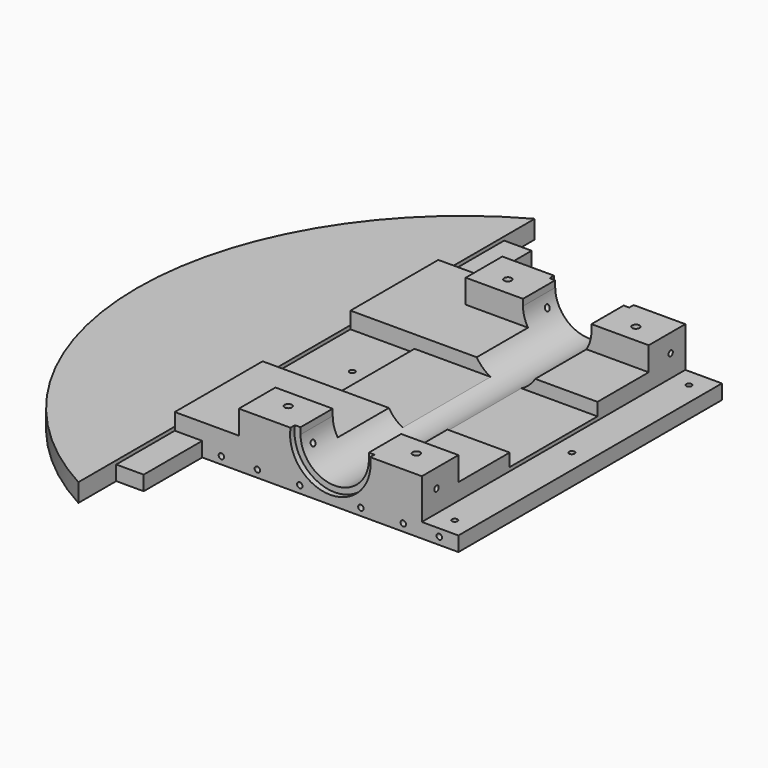
from build123d import *

# Parameters (mm, degrees)
SKETCH_W        = 100
SKETCH_H        = 180
PAD_DEPTH       = 30
SKETCH001_R     = 18.7
POCKET_DEPTH    = 180.0010000003
SKETCH002_W     = 37.4
SKETCH002_H     = 3.534863
POCKET001_DEPTH = 180.0010000003
SKETCH003_W     = 180
SKETCH003_H     = 8
PAD001_DEPTH    = 20
SKETCH004_W     = 180
SKETCH004_H     = 8
PAD002_DEPTH    = 20
SKETCH005_R     = 1.5
POCKET002_DEPTH = 8.001
SKETCH006_R     = 1.5
POCKET003_DEPTH = 120.001
SKETCH007_R     = 1.5
POCKET004_DEPTH = 180.0010001003
SKETCH008_W     = 130
SKETCH008_H     = 13
POCKET005_DEPTH = 400
SKETCH009_R     = 22
POCKET006_DEPTH = 3
SKETCH010_R     = 22
POCKET007_DEPTH = 3
SKETCH011_W     = 60
SKETCH011_H     = 7
POCKET008_DEPTH = 120
SKETCH012_R     = 2
POCKET009_DEPTH = 30.0010001
SKETCH013_W     = 60
SKETCH013_H     = 9
PAD003_DEPTH    = 35
SKETCH014_W     = 60
SKETCH014_H     = 9
PAD004_DEPTH    = 35
SKETCH015_W     = 180
SKETCH015_H     = 17
PAD005_DEPTH    = 15
SKETCH016_W     = 60
SKETCH016_H     = 9
POCKET010_DEPTH = 27
SKETCH017_W     = 15
SKETCH017_H     = 8
PAD006_DEPTH    = 40
SKETCH018_W     = 15
SKETCH018_H     = 8
PAD007_DEPTH    = 45
SKETCH019_W     = 265
SKETCH019_H     = 8
PAD008_DEPTH    = 15
PAD009_DEPTH    = 10


with BuildPart() as part:
    # Sketch → Pad (new body)
    with BuildSketch(Plane.XY):
        Rectangle(SKETCH_W, SKETCH_H)
    extrude(amount=PAD_DEPTH)

    # Sketch001 → Pocket (cut, through all)
    with BuildSketch(Plane.XZ.offset(90)):
        with Locations((0, 26.7)):
            Circle(SKETCH001_R)
    extrude(amount=-POCKET_DEPTH, mode=Mode.SUBTRACT)

    # Sketch002 → Pocket001 (cut, through all)
    with BuildSketch(Plane.XZ.offset(90)):
        with Locations((0, 28.2325685)):
            Rectangle(SKETCH002_W, SKETCH002_H)
    extrude(amount=-POCKET001_DEPTH, mode=Mode.SUBTRACT)

    # Sketch003 → Pad001 (new body)
    with BuildSketch(Plane(origin=(-50, 0, 0), x_dir=(0, -1, 0), z_dir=(-1, 0, 0))):
        with Locations((0, 4)):
            Rectangle(SKETCH003_W, SKETCH003_H)
    extrude(amount=PAD001_DEPTH)

    # Sketch004 → Pad002 (new body)
    with BuildSketch(Plane.YZ.offset(50)):
        with Locations((0, 4)):
            Rectangle(SKETCH004_W, SKETCH004_H)
    extrude(amount=PAD002_DEPTH)

    # Sketch005 → Pocket002 (cut, through all)
    with BuildSketch(Plane.XY.offset(8)):
        with Locations((-60, 80)):
            Circle(SKETCH005_R)
        with Locations((60, 80)):
            Circle(SKETCH005_R)
        with Locations((-60, -80)):
            Circle(SKETCH005_R)
        with Locations((60, -80)):
            Circle(SKETCH005_R)
        with Locations((60, 0)):
            Circle(SKETCH005_R)
        with Locations((-60, 0)):
            Circle(SKETCH005_R)
    extrude(amount=-POCKET002_DEPTH, mode=Mode.SUBTRACT)

    # Sketch006 → Pocket003 (cut, through all)
    with BuildSketch(Plane.YZ.offset(50)):
        with Locations((-80, 20)):
            Circle(SKETCH006_R)
        with Locations((0, 20)):
            Circle(SKETCH006_R)
        with Locations((80, 20)):
            Circle(SKETCH006_R)
    extrude(amount=-POCKET003_DEPTH, mode=Mode.SUBTRACT)

    # Sketch007 → Pocket004 (cut, through all)
    with BuildSketch(Plane(origin=(0, 90, 0), x_dir=(-1, 0, 0), z_dir=(0, 1, 0))):
        with Locations((-39.8613268753, 4)):
            Circle(SKETCH007_R)
        with Locations((-16.6962588038, 4)):
            Circle(SKETCH007_R)
        with Locations((16.6962588038, 4)):
            Circle(SKETCH007_R)
        with Locations((39.8613268753, 4)):
            Circle(SKETCH007_R)
        with Locations((59.5531621299, 4)):
            Circle(SKETCH007_R)
        with Locations((-59.5531621299, 4)):
            Circle(SKETCH007_R)
    extrude(amount=-POCKET004_DEPTH, mode=Mode.SUBTRACT)

    # Sketch008 → Pocket005 (cut)
    with BuildSketch(Plane(origin=(-50, 0, 0), x_dir=(0, -1, 0), z_dir=(-1, 0, 0))):
        with Locations((0, 23.5)):
            Rectangle(SKETCH008_W, SKETCH008_H)
    extrude(amount=-POCKET005_DEPTH, mode=Mode.SUBTRACT)

    # Sketch009 → Pocket006 (cut)
    with BuildSketch(Plane.XZ.offset(90)):
        with Locations((0, 26.782612)):
            Circle(SKETCH009_R)
    extrude(amount=-POCKET006_DEPTH, mode=Mode.SUBTRACT)

    # Sketch010 → Pocket007 (cut)
    with BuildSketch(Plane(origin=(0, 90, 0), x_dir=(-1, 0, 0), z_dir=(0, 1, 0))):
        with Locations((0, 26.850603)):
            Circle(SKETCH010_R)
    extrude(amount=-POCKET007_DEPTH, mode=Mode.SUBTRACT)

    # Sketch011 → Pocket008 (cut)
    with BuildSketch(Plane.YZ.offset(50)):
        with Locations((0, 13.5)):
            Rectangle(SKETCH011_W, SKETCH011_H)
    extrude(amount=-POCKET008_DEPTH, mode=Mode.SUBTRACT)

    # Sketch012 → Pocket009 (cut, through all)
    with BuildSketch(Plane.XY.offset(30)):
        with Locations((-35, 75)):
            Circle(SKETCH012_R)
        with Locations((35, 75)):
            Circle(SKETCH012_R)
        with Locations((-35, -75)):
            Circle(SKETCH012_R)
        with Locations((35, -75)):
            Circle(SKETCH012_R)
    extrude(amount=-POCKET009_DEPTH, mode=Mode.SUBTRACT)

    # Sketch013 → Pad003 (new body)
    with BuildSketch(Plane(origin=(-50, 0, 0), x_dir=(0, -1, 0), z_dir=(-1, 0, 0))):
        with Locations((-60, 12.5)):
            Rectangle(SKETCH013_W, SKETCH013_H)
    extrude(amount=PAD003_DEPTH)

    # Sketch014 → Pad004 (new body)
    with BuildSketch(Plane(origin=(-50, 0, 0), x_dir=(0, -1, 0), z_dir=(-1, 0, 0))):
        with Locations((60, 12.5)):
            Rectangle(SKETCH014_W, SKETCH014_H)
    extrude(amount=PAD004_DEPTH)

    # Sketch015 → Pad005 (new body)
    with BuildSketch(Plane(origin=(-85, 0, 0), x_dir=(0, -1, 0), z_dir=(-1, 0, 0))):
        with Locations((0, 8.5)):
            Rectangle(SKETCH015_W, SKETCH015_H)
    extrude(amount=-PAD005_DEPTH)

    # Sketch016 → Pocket010 (cut)
    with BuildSketch(Plane(origin=(-85, 0, 0), x_dir=(0, -1, 0), z_dir=(-1, 0, 0))):
        with Locations((0, 12.5)):
            Rectangle(SKETCH016_W, SKETCH016_H)
    extrude(amount=-POCKET010_DEPTH, mode=Mode.SUBTRACT)

    # Sketch017 → Pad006 (new body)
    with BuildSketch(Plane.XZ.offset(90)):
        with Locations((-77.5, 4)):
            Rectangle(SKETCH017_W, SKETCH017_H)
    extrude(amount=PAD006_DEPTH)

    # Sketch018 → Pad007 (new body)
    with BuildSketch(Plane(origin=(0, 90, 0), x_dir=(-1, 0, 0), z_dir=(0, 1, 0))):
        with Locations((77.5, 4)):
            Rectangle(SKETCH018_W, SKETCH018_H)
    extrude(amount=PAD007_DEPTH)

    # Sketch019 → Pad008 (new body)
    with BuildSketch(Plane(origin=(-85, 0, 0), x_dir=(0, -1, 0), z_dir=(-1, 0, 0))):
        with Locations((-2.5, 4)):
            Rectangle(SKETCH019_W, SKETCH019_H)
    extrude(amount=PAD008_DEPTH)

    # Sketch020 → Pad009 (new body)
    with BuildSketch(Plane(origin=(0, 0, 0), x_dir=(1, 0, 0), z_dir=(0, 0, -1))):
        with BuildLine():
            ThreePointArc((-85, 155.8699829987), (-177.54, 0), (-85, -155.8699829987))
            Line((-85, -155.8699829987), (-85, 155.8699829987))
        make_face()
    extrude(amount=-PAD009_DEPTH)


solid = part.part
